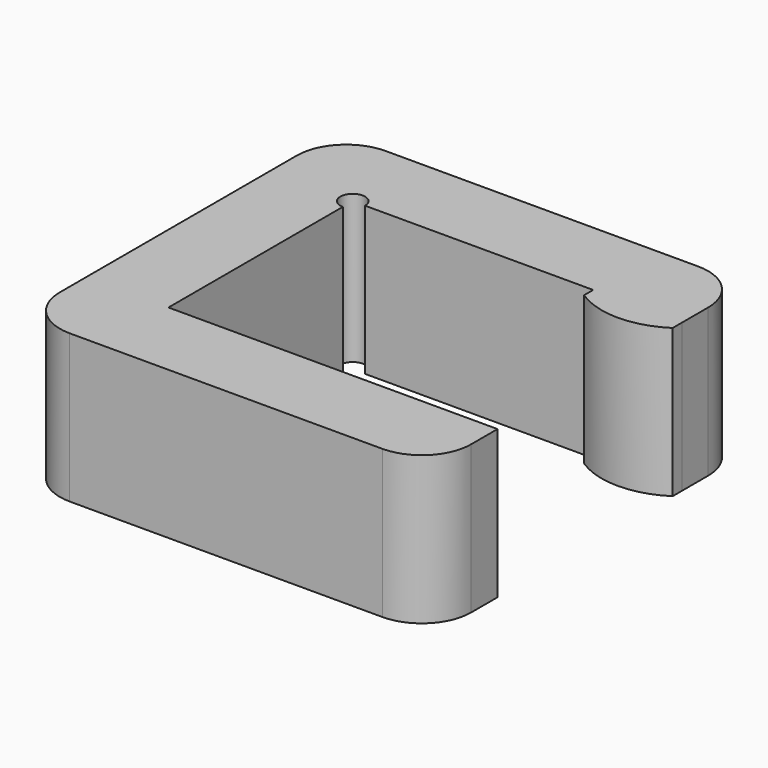
from build123d import *

# Parameters (mm, degrees)
F0_W     = 5.387183
F0_H     = 0.69484
F1_DEPTH = 9
F2_R     = 3


with BuildPart() as f1:
    # F0 (on Top) → F1 (new body)
    with BuildSketch(Plane.XY):
        with BuildLine():
            ThreePointArc((-1.662956, 5.542424), (1.030635, 4.737264), (3.724227, 5.542424))
            Line((3.724227, 5.542424), (-1.662956, 5.542424))
        make_face()
        with Locations((1.030636, 5.889844)):
            Rectangle(F0_W, F0_H)
        with BuildLine():
            Line((3.724227, 6.237264), (3.724227, 11.237264))
            Line((3.724227, 11.237264), (-21.275773, 11.237264))
            Line((-21.275773, 11.237264), (-21.275773, -12.762736))
            Line((-21.275773, -12.762736), (3.724227, -12.762736))
            Line((3.724227, -12.762736), (3.724227, -7.762736))
            Line((3.724227, -7.762736), (-16.275773, -7.762736))
            Line((-16.275773, -7.762736), (-16.275773, 5.487264))
            ThreePointArc((-16.275773, 5.487264), (-16.806103, 6.767594), (-15.525773, 6.237264))
            Line((-15.525773, 6.237264), (-1.662956, 6.237264))
            Line((-1.662956, 6.237264), (3.724227, 6.237264))
        make_face()
    extrude(amount=F1_DEPTH)

    # F2
    f2_edges = [f1.edges().sort_by_distance(p)[0] for p in [
        (-21.275773, 11.237264, 4.5),
        (-21.275773, -12.762736, 4.5),
        (3.724227, 11.237264, 4.5),
        (3.724227, -12.762736, 4.5),
    ]]
    fillet(f2_edges, radius=F2_R)


solid = f1.part
